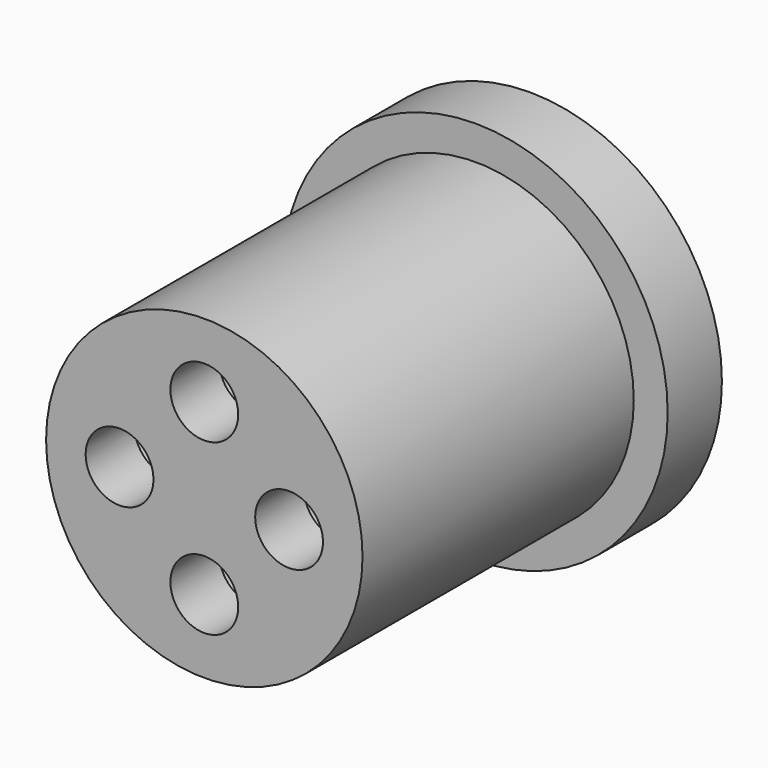
from build123d import *

# Parameters (mm, degrees)
F0_R     = 8.5
F1_DEPTH = 3
F2_R     = 7
F3_DEPTH = 15
F5_D     = 3
F7_D     = 12
F7_DEPTH = 12
F7_TIP   = 3.6051637142
F9_D     = 4
F9_DEPTH = 15
F9_TIP   = 1.2017212381


with BuildPart() as f1:
    # F0 (on Front) → F1 (new body)
    with BuildSketch(Plane.XZ):
        Circle(F0_R)
    extrude(amount=F1_DEPTH)

    # F2 (on face) → F3 (join)
    with BuildSketch(Plane.XZ.offset(3)):
        Circle(F2_R)
    extrude(amount=F3_DEPTH)

    # F5 (through all)
    with Locations(Plane.XZ.offset(18)):
        with Locations((0, 3.75), (3.75, 0), (0, -3.75), (-3.75, 0)):
            Hole(F5_D / 2)

    # F7
    with Locations(Plane(origin=(0, 0, 0), x_dir=(-1, 0, 0), z_dir=(0, 1, 0))):
        with Locations((0, 0)):
            Hole(F7_D / 2, depth=F7_DEPTH)
            with Locations((0, 0, -(F7_DEPTH + F7_TIP / 2))):  # 118° drill point
                Cone(0, F7_D / 2, F7_TIP, mode=Mode.SUBTRACT)

    # F9
    with Locations(Plane(origin=(0, 0, 0), x_dir=(-1, 0, 0), z_dir=(0, 1, 0))):
        with Locations((0, 3.75), (-3.75, 0), (3.75, 0), (0, -3.75)):
            Hole(F9_D / 2, depth=F9_DEPTH)
            with Locations((0, 0, -(F9_DEPTH + F9_TIP / 2))):  # 118° drill point
                Cone(0, F9_D / 2, F9_TIP, mode=Mode.SUBTRACT)


solid = f1.part
